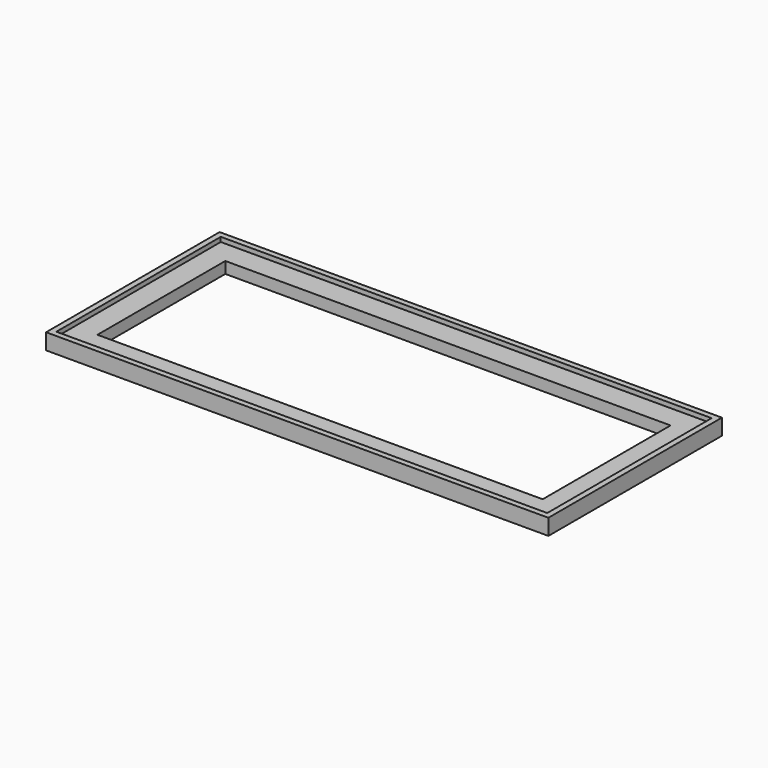
from build123d import *

# Parameters (mm, degrees)
F0_W     = 136.525
F0_H     = 57.15
F0_W_2   = 123.825
F0_H_2   = 44.45
F1_DEPTH = 3.175
F2_W     = 139.7
F2_H     = 60.325
F2_W_2   = 136.525
F2_H_2   = 57.15
F3_DEPTH = 4.445


with BuildPart() as f1:
    # F0 (on Top) → F1 (new body)
    with BuildSketch(Plane.XY):
        with Locations((68.2625, 28.575)):
            Rectangle(F0_W, F0_H)
        with Locations((68.2625, 28.575)):
            Rectangle(F0_W_2, F0_H_2, mode=Mode.SUBTRACT)
    extrude(amount=F1_DEPTH)

    # F2 (on Top) → F3 (join)
    with BuildSketch(Plane.XY):
        with Locations((68.2625, 28.575)):
            Rectangle(F2_W, F2_H)
        with Locations((68.2625, 28.575)):
            Rectangle(F2_W_2, F2_H_2, mode=Mode.SUBTRACT)
    extrude(amount=F3_DEPTH)


solid = f1.part
